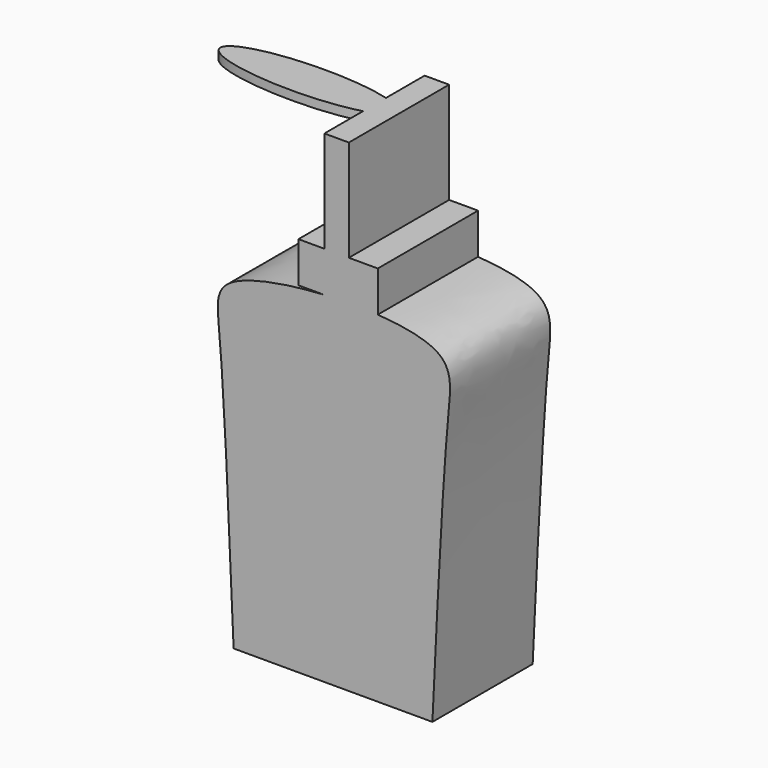
from build123d import *

# Parameters (mm, degrees)
F1_DEPTH = 25.4
F0_W     = 4.9641267397
F0_H     = 20.5680120253
F2_DEPTH = 25.4
F4_DEPTH = 1.778


with BuildPart() as f1:
    # F0 (on Front) → F1 (new body)
    with BuildSketch(Plane.XZ):
        with BuildLine():
            add(Edge.make_bspline(
                [(-2.5424052642, 13.4505262055), (1.1521358093, 13.6647690598), (4.9162748075, 13.6731126703), (8.3490842731, 13.4505262055)],
                knots=[0.4880703365, 0.4880703365, 0.4880703365, 0.4880703365, 0.5400106865, 0.5400106865, 0.5400106865, 0.5400106865], degree=3))
            Line((-2.5424052642, 13.4505262055), (8.3490842731, 13.4505262055))
        make_face()
    extrude(amount=F1_DEPTH)

    # F0 (on Front) → F2 (join)
    with BuildSketch(Plane.XZ):
        with BuildLine():
            add(Edge.make_bspline(
                [(-20.8785217255, -55.6273907423), (-21.8121267596, -33.4650030089), (-23.1454067557, -1.8149292086), (-25.1589760047, 10.3212946622), (-10.0779831552, 13.0135453506), (-2.5424052642, 13.4505262055)],
                knots=[0, 0, 0, 0, 0.2675796431, 0.3821301005, 0.4880703365, 0.4880703365, 0.4880703365, 0.4880703365], degree=3))
            Line((-20.8785217255, -55.6273907423), (19.4184854627, -55.6273907423))
            add(Edge.make_bspline(
                [(8.3490842731, 13.4505262055), (12.9609733748, 13.1514871526), (24.0264096091, 11.1780304821), (21.9504869715, -2.2184048812), (20.4485582955, -33.8994631834), (19.4184854627, -55.6273907423)],
                knots=[0.5400106865, 0.5400106865, 0.5400106865, 0.5400106865, 0.6097911787, 0.732381762, 1, 1, 1, 1], degree=3))
            Line((8.3490842731, 13.4505262055), (-2.5424052642, 13.4505262055))
        make_face()
        with BuildLine():
            Line((-7.7423275904, 13.4505262055), (-2.5424052642, 13.4505262055))
            add(Edge.make_bspline(
                [(-2.5424052642, 13.4505262055), (1.1521358093, 13.6647690598), (4.9162748075, 13.6731126703), (8.3490842731, 13.4505262055)],
                knots=[0.4880703365, 0.4880703365, 0.4880703365, 0.4880703365, 0.5400106865, 0.5400106865, 0.5400106865, 0.5400106865], degree=3))
            Line((8.3490842731, 13.4505262055), (8.3490842731, 21.6907939184))
            Line((8.3490842731, 21.6907939184), (2.4820633698, 21.6907939184))
            Line((2.4820633698, 21.6907939184), (-2.4820633698, 21.6907939184))
            Line((-2.4820633698, 21.6907939184), (-7.7423275904, 21.6907939184))
            Line((-7.7423275904, 21.6907939184), (-7.7423275904, 13.4505262055))
        make_face()
        with BuildLine():
            add(Edge.make_bspline(
                [(-2.5424052642, 13.4505262055), (1.1521358093, 13.6647690598), (4.9162748075, 13.6731126703), (8.3490842731, 13.4505262055)],
                knots=[0.4880703365, 0.4880703365, 0.4880703365, 0.4880703365, 0.5400106865, 0.5400106865, 0.5400106865, 0.5400106865], degree=3))
            Line((-2.5424052642, 13.4505262055), (8.3490842731, 13.4505262055))
        make_face()
        with Locations((0, 31.974799931)):
            Rectangle(F0_W, F0_H)
    extrude(amount=F2_DEPTH)

    # F3 (on face) → F4 (join)
    with BuildSketch(Plane.XY.offset(42.2588059437)):
        with BuildLine():
            add(Edge.make_bspline(
                [(1.8980501918, -12.7), (1.8980501918, -5.0506086184), (-24.8206210672, -8.8753043092), (-51.5392923262, -12.7), (-24.8206210672, -16.5246956908), (1.8980501918, -20.3493913816), (1.8980501918, -12.7)],
                knots=[0, 0, 0, 2.0943951024, 2.0943951024, 4.1887902048, 4.1887902048, 6.2831853072, 6.2831853072, 6.2831853072], degree=2, weights=[1, 0.5, 1, 0.5, 1, 0.5, 1]))
        make_face()
    extrude(amount=-F4_DEPTH)


solid = f1.part
